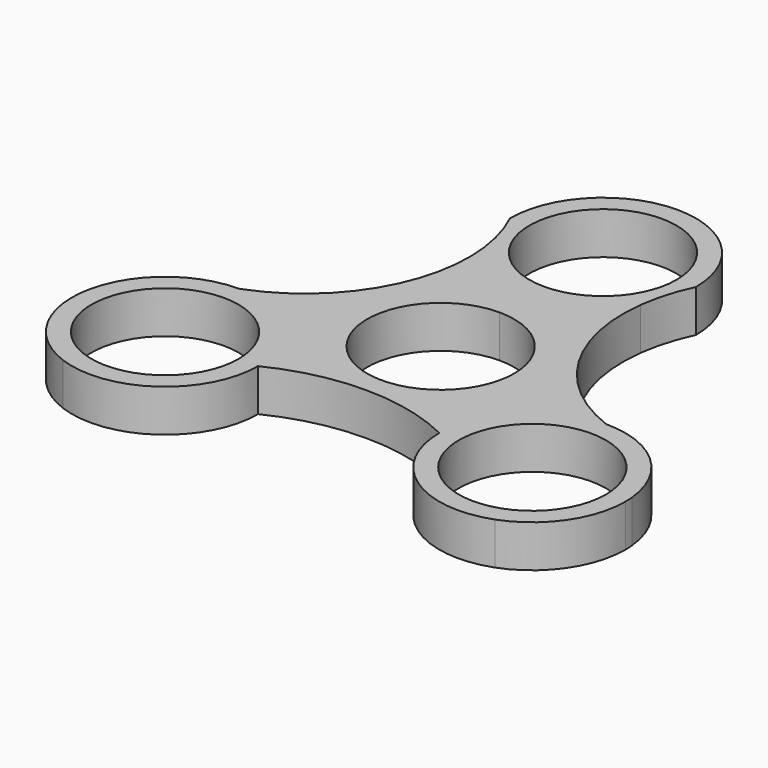
from build123d import *

# Parameters (mm, degrees)
F0_R     = 11.049
F1_DEPTH = 6.35


with BuildPart() as f1:
    # F0 (on Top) → F1 (new body)
    with BuildSketch(Plane.XY):
        with BuildLine():
            ThreePointArc((13.629375726, -17.2792417221), (17.7003329036, -7.4217648034), (27.5405927913, -3.309365396))
            ThreePointArc((27.5405927913, -3.309365396), (15.086449318, 7.051761798), (11.7361280198, 22.9021243674))
            ThreePointArc((11.7361280198, 22.9021243674), (6.6819898762, 18.2116703951), (0, 16.51))
            ThreePointArc((0, 16.51), (-6.6763170276, 18.2085823579), (-11.7291158994, 22.891275455))
            ThreePointArc((-11.7291158994, 22.891275455), (-15.0856557039, 7.0272020842), (-27.5610287338, -3.3313813683))
            ThreePointArc((-27.5610287338, -3.3313813683), (-17.6827470006, -7.4230996351), (-13.5910287338, -17.3013813683))
            ThreePointArc((-13.5910287338, -17.3013813683), (0.0166082519, -14.1363774408), (13.629375726, -17.2792417221))
        make_face()
        with BuildLine():
            ThreePointArc((13.97, 0), (-9.8782817332, -9.8782817332), (0, 13.97))
            ThreePointArc((0, 13.97), (9.8782817332, 9.8782817332), (13.97, 0))
        make_face(mode=Mode.SUBTRACT)
        with BuildLine():
            ThreePointArc((13.97, 0), (9.8782817332, 9.8782817332), (0, 13.97))
            ThreePointArc((0, 13.97), (-9.8782817332, -9.8782817332), (13.97, 0))
        make_face()
        with BuildLine():
            ThreePointArc((11.049, 0), (-7.8128228253, -7.8128228253), (0, 11.049))
            ThreePointArc((0, 11.049), (7.8128228253, 7.8128228253), (11.049, 0))
        make_face(mode=Mode.SUBTRACT)
        with BuildLine():
            ThreePointArc((13.97, 30.48), (9.8782817686, 40.3582816978), (1.001e-07, 44.45))
            ThreePointArc((1.001e-07, 44.45), (-9.8782816978, 40.3582817686), (-13.97, 30.48))
            ThreePointArc((-13.97, 30.48), (-12.5435043089, 26.7760126955), (-11.7291158994, 22.891275455))
            ThreePointArc((-11.7291158994, 22.891275455), (-6.6763170276, 18.2085823579), (0, 16.51))
            ThreePointArc((0, 16.51), (6.6819898762, 18.2116703951), (11.7361280198, 22.9021243674))
            ThreePointArc((11.7361280198, 22.9021243674), (12.5479892343, 26.7809947751), (13.97, 30.48))
        make_face()
        with BuildLine():
            ThreePointArc((11.049, 30.48), (7.8128228253, 22.6671771747), (0, 19.431))
            ThreePointArc((0, 19.431), (-7.8128228253, 38.2928228253), (11.049, 30.48))
        make_face(mode=Mode.SUBTRACT)
        with BuildLine():
            ThreePointArc((-27.5610287338, -3.3313813683), (-36.9681276962, -6.9733908033), (-41.4703242711, -16.0004595199))
            ThreePointArc((-41.4703242711, -16.0004595199), (-37.6469546626, -23.6328014554), (-32.4351043479, -30.3935273692))
            ThreePointArc((-32.4351043479, -30.3935273692), (-19.5901422188, -28.7742131096), (-13.5910287338, -17.3013813683))
            ThreePointArc((-13.5910287338, -17.3013813683), (-17.6827470006, -7.4230996351), (-27.5610287338, -3.3313813683))
        make_face()
        with Locations((-27.5610287338, -17.3013813683)):
            Circle(F0_R, mode=Mode.SUBTRACT)
        with BuildLine():
            ThreePointArc((32.4464596099, -30.3814048191), (37.6753336679, -23.5875334236), (41.5027242234, -15.9162301452))
            ThreePointArc((41.5027242234, -15.9162301452), (36.9616008144, -6.9105561066), (27.5405927913, -3.309365396))
            ThreePointArc((27.5405927913, -3.309365396), (17.7003329036, -7.4217648034), (13.629375726, -17.2792417221))
            ThreePointArc((13.629375726, -17.2792417221), (19.6166713552, -28.7438538363), (32.4464596099, -30.3814048191))
        make_face()
        with Locations((27.599375726, -17.2792417221)):
            Circle(F0_R, mode=Mode.SUBTRACT)
        with BuildLine():
            ThreePointArc((41.569375726, -17.2792417221), (41.552702901, -16.5969216026), (41.5027242234, -15.9162301452))
            ThreePointArc((41.5027242234, -15.9162301452), (37.6753336679, -23.5875334236), (32.4464596099, -30.3814048191))
            ThreePointArc((32.4464596099, -30.3814048191), (39.0639878402, -25.2619460928), (41.569375726, -17.2792417221))
        make_face()
        with BuildLine():
            ThreePointArc((-32.4351043479, -30.3935273692), (-37.6469546626, -23.6328014554), (-41.4703242711, -16.0004595199))
            ThreePointArc((-41.4703242711, -16.0004595199), (-39.3929287706, -24.7288332543), (-32.4351043479, -30.3935273692))
        make_face()
    extrude(amount=F1_DEPTH)


solid = f1.part
